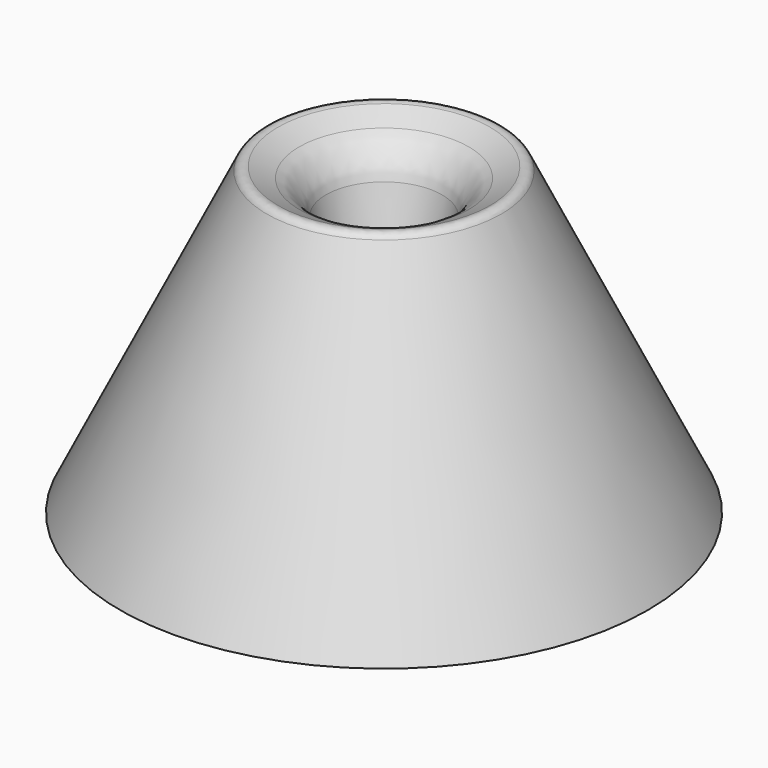
from build123d import *

# Parameters (mm, degrees)
F2_R = 3
F3_R = 0.5


with BuildPart() as f1:
    # F0 (on Front) → F1 (revolve)
    with BuildSketch(Plane.XZ):
        Polygon((0, 1), (0, 0), (15.8, 0), (6.8, 18.462429), (3.8, 17), align=None)
    revolve(axis=Axis((0, 0, 0.5), (0, 0, -1)))

    # F2
    f2_edges = [f1.edges().sort_by_distance(p)[0] for p in [
        (-3.8, 0, 17),
        (1.9, 0, 9),
    ]]
    fillet(f2_edges, radius=F2_R)

    # F3
    f3_edges = [f1.edges().sort_by_distance(p)[0] for p in [
        (-6.8, 0, 18.462429),
    ]]
    fillet(f3_edges, radius=F3_R)


solid = f1.part
